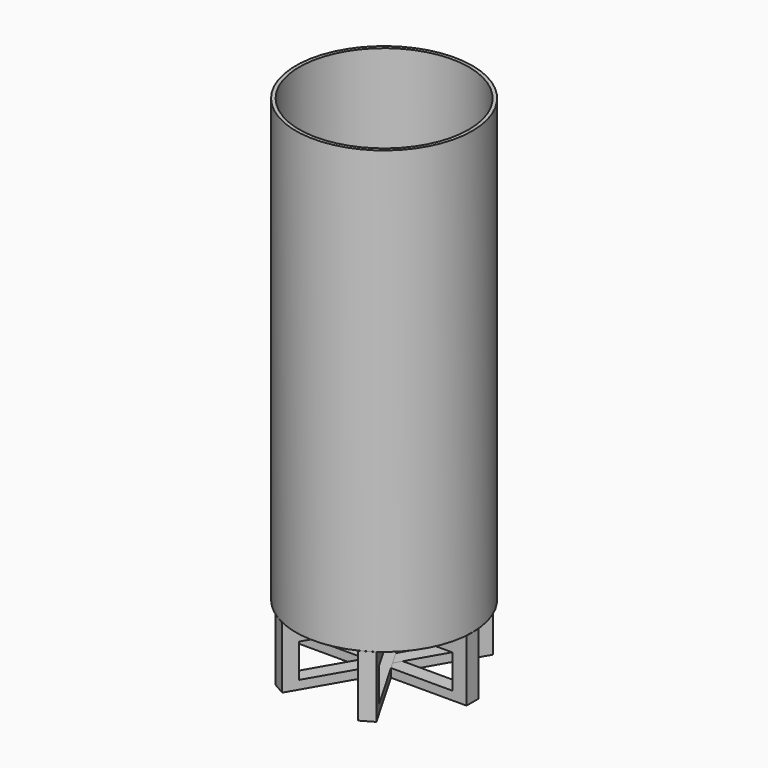
from build123d import *

# Parameters (mm, degrees)
F0_R     = 76.2
F0_R_2   = 73.152
F1_DEPTH = 381
F2_W     = 47.1821632236
F2_H     = 18.0959999561
F3_DEPTH = 6.35
F4_COUNT = 6
F5_W     = 4.7625
F5_H     = 415.0329411
F6_DEPTH = 6.35
F7_COUNT = 2
F0_R_3   = 23.0898373335
F9_DEPTH = 38.1
F10_T    = -2.54


with BuildPart() as f1:
    # F0 (on Top) → F1 (new body)
    with BuildSketch(Plane.XY):
        Circle(F0_R)
        Circle(F0_R_2, mode=Mode.SUBTRACT)
    extrude(amount=F1_DEPTH)


with BuildPart() as f3:
    # F2 (on Front) → F3 (new body, symmetric)
    with BuildSketch(Plane.XZ):
        Polygon((-76.2, -53.0829411), (0, -53.0829411), (76.2, -53.0829411), (76.2, 0), (70.2766813338, 0), (23.0945181102, 0), (23.0898373335, 0), (0, 0), (-23.0898373335, 0), (-23.0945181102, 0), (-70.2766813338, 0), (-76.2, 0), align=None)
        Polygon((-63.9858394861, -16.5668288246), (0, -16.5668288246), (63.9858394861, -16.5668288246), (63.9858394861, -45.6747319549), (0, -45.6747319549), (-63.9858394861, -45.6747319549), align=None, mode=Mode.SUBTRACT)
        with Locations((46.685599722, 9.0479999781)):
            Rectangle(F2_W, F2_H)
        with Locations((-46.685599722, 9.0479999781)):
            Rectangle(F2_W, F2_H)
    extrude(amount=F3_DEPTH, both=True)


with BuildPart() as f4_1:
    # F4: instance of F3
    add(f3.part.rotate(Axis((0, 0, 63.1007701159), (0, 0, 1)), 1 * 360 / F4_COUNT))


with BuildPart() as f4_2:
    # F4: instance of F3
    add(f3.part.rotate(Axis((0, 0, 63.1007701159), (0, 0, 1)), 2 * 360 / F4_COUNT))


with BuildPart() as f4_3:
    # F4: instance of F3
    add(f3.part.rotate(Axis((0, 0, 63.1007701159), (0, 0, 1)), 3 * 360 / F4_COUNT))


with BuildPart() as f4_4:
    # F4: instance of F3
    add(f3.part.rotate(Axis((0, 0, 63.1007701159), (0, 0, 1)), 4 * 360 / F4_COUNT))


with BuildPart() as f4_5:
    # F4: instance of F3
    add(f3.part.rotate(Axis((0, 0, 63.1007701159), (0, 0, 1)), 5 * 360 / F4_COUNT))


with BuildPart() as f6:
    # F5 (on Front) → F6 (new body, symmetric)
    with BuildSketch(Plane.XZ):
        with Locations((78.58125, 154.43352945)):
            Rectangle(F5_W, F5_H)
    extrude(amount=F6_DEPTH, both=True)


with BuildPart() as f7_1:
    # F7: instance of F6
    add(f6.part.rotate(Axis((0, 0, 10.6305740774), (0, 0, -1)), 1 * 360 / F7_COUNT))


with BuildPart() as f9:
    # F0 (on Top) → F9 (new body)
    with BuildSketch(Plane.XY):
        Circle(F0_R_3)
    extrude(amount=F9_DEPTH)

    # F10
    f10_openings = [f9.faces().sort_by_distance(p)[0] for p in [
        (0, 0, 38.1),
    ]]
    offset(amount=F10_T, openings=f10_openings)


solid = Compound([f1.part, f3.part, f4_1.part, f4_2.part, f4_3.part, f4_4.part, f4_5.part, f9.part])
